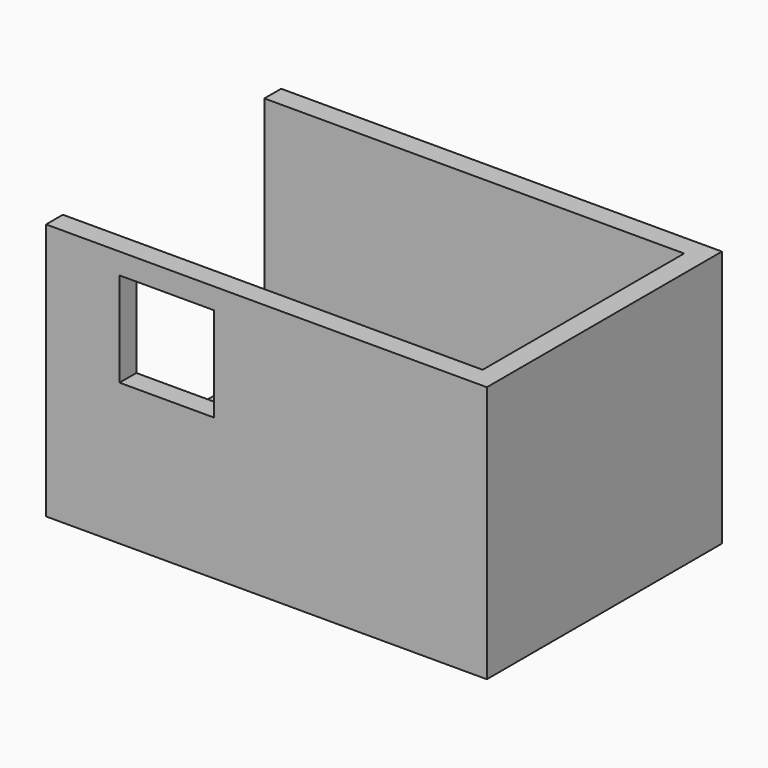
from build123d import *

# Parameters (mm, degrees)
F0_W     = 4267.2
F0_H     = 2844.8
F1_DEPTH = 203.2
F3_DEPTH = 2286
F4_W     = 914.4
F4_H     = 914.4
F5_DEPTH = 203.2


with BuildPart() as f1:
    # F0 (on Top) → F1 (new body)
    with BuildSketch(Plane.XY):
        with Locations((2133.6, 1422.4)):
            Rectangle(F0_W, F0_H)
    extrude(amount=F1_DEPTH)

    # F2 (on face) → F3 (join)
    with BuildSketch(Plane.XY.offset(203.2)):
        Polygon((0, 203.2), (0, 0), (4267.2, 0), (4267.2, 2844.8), (0, 2844.8), (0, 2641.6), (4064, 2641.6), (4064, 203.2), align=None)
    extrude(amount=F3_DEPTH)

    # F4 (on face) → F5 (cut, through all)
    with BuildSketch(Plane.XZ):
        with Locations((1168.4, 1828.8)):
            Rectangle(F4_W, F4_H)
    extrude(amount=-F5_DEPTH, mode=Mode.SUBTRACT)


solid = f1.part
